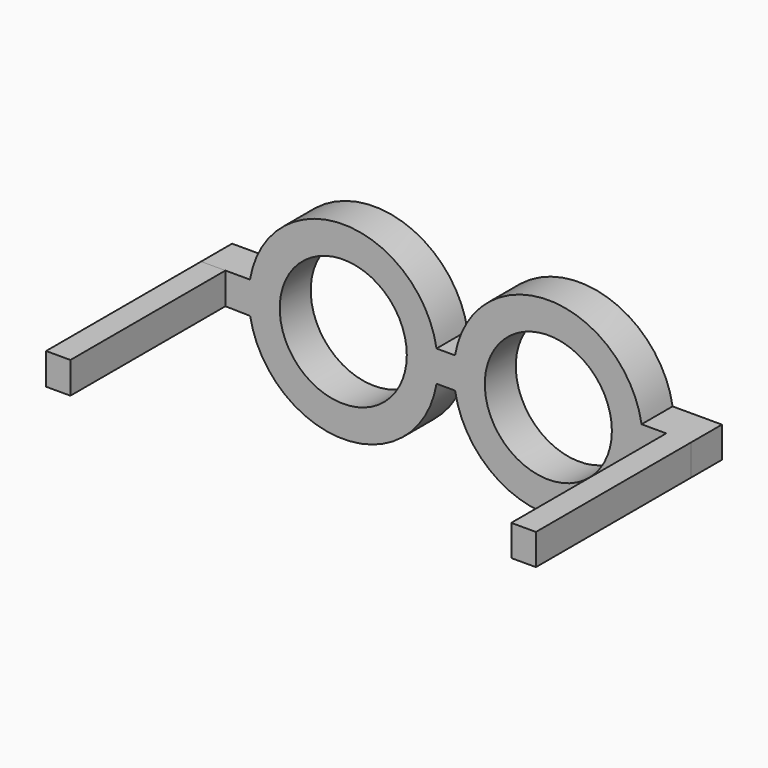
from build123d import *

# Parameters (mm, degrees)
F0_R     = 8.2
F1_DEPTH = 5
F2_W     = 3.140779
F2_H     = 4.060667
F2_W_2   = 3.182525
F2_H_2   = 4
F3_DEPTH = 25


with BuildPart() as f1:
    # F0 (on Front) → F1 (new body)
    with BuildSketch(Plane.XZ):
        Circle(F0_R)
        with BuildLine():
            Line((-18.401609, -1.999649), (-12.014094, -2.121686))
            ThreePointArc((-12.014094, -2.121686), (0.06173, -12.199844), (12.034949, -2))
            Line((12.034949, -2), (14.427051, -2))
            ThreePointArc((14.427051, -2), (26.462, -12.2), (38.496949, -2))
            Line((38.496949, -2), (44.862, -2))
            Line((44.862, -2), (44.862, 2))
            Line((44.862, 2), (38.496949, 2))
            ThreePointArc((38.496949, 2), (26.462, 12.2), (14.427051, 2))
            Line((14.427051, 2), (12.034949, 2))
            ThreePointArc((12.034949, 2), (0, 12.2), (-12.034949, 2))
            Line((-12.034949, 2), (-18.348631, 2))
            Line((-18.348631, 2), (-18.401609, -1.999649))
        make_face()
        Circle(F0_R, mode=Mode.SUBTRACT)
        with Locations((26.462, 0)):
            Circle(F0_R, mode=Mode.SUBTRACT)
    extrude(amount=F1_DEPTH)

    # F2 (on face) → F3 (join)
    with BuildSketch(Plane.XZ.offset(5)):
        with Locations((-16.778242, -0.030334)):
            Rectangle(F2_W, F2_H)
        with Locations((43.270737, 0)):
            Rectangle(F2_W_2, F2_H_2)
    extrude(amount=F3_DEPTH)


solid = f1.part
